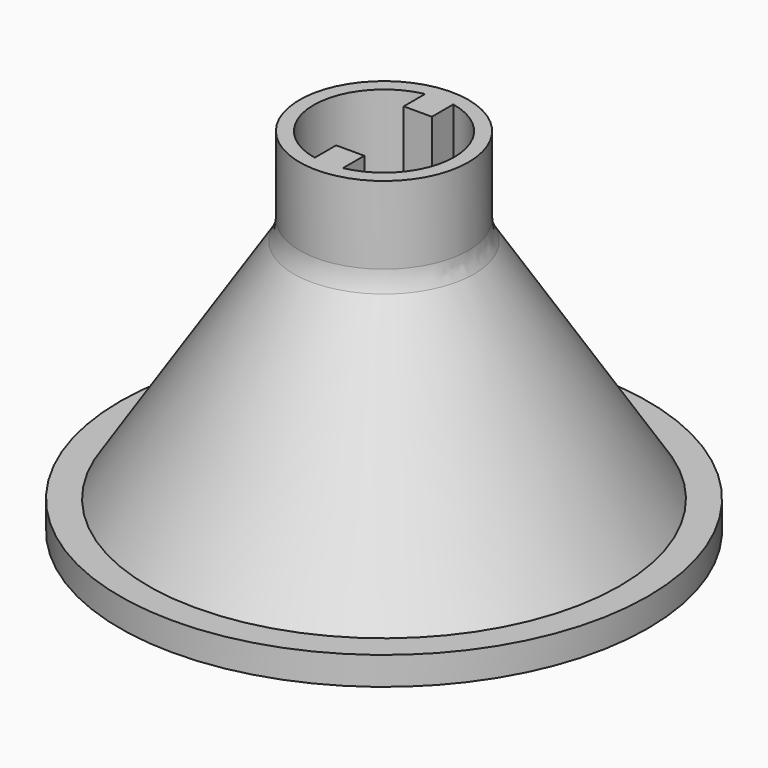
from build123d import *

# Parameters (mm, degrees)
F0_W     = 6.096
F0_H     = 6.35
F2_R     = 5.08
F3_DEPTH = 24.13
F4_R     = 2.54
F5_W     = 2.032
F5_H     = 2.54
F6_DEPTH = 25.4


with BuildPart() as f1:
    # F0 (on Front) → F1 (revolve)
    with BuildSketch(Plane.XZ):
        Polygon((0, 19.05), (0, 0), (19.05, 0), (19.05, 2.032), (17.018, 2.032), (6.096, 19.05), align=None)
        with Locations((3.048, 22.225)):
            Rectangle(F0_W, F0_H)
    revolve(axis=Axis((0, 0, 9.525), (0, 0, 1)))

    # F2 (on face) → F3 (cut)
    with BuildSketch(Plane.XY.offset(25.4)):
        Circle(F2_R)
    extrude(amount=-F3_DEPTH, mode=Mode.SUBTRACT)

    # F4
    f4_edges = [f1.edges().sort_by_distance(p)[0] for p in [
        (-6.096, 0, 19.05),
    ]]
    fillet(f4_edges, radius=F4_R)

    # F5 (on face) → F6 (join)
    with BuildSketch(Plane.XY.offset(25.4)):
        with Locations((0, -4.318)):
            Rectangle(F5_W, F5_H)
        with Locations((0, 4.318)):
            Rectangle(F5_W, F5_H)
    extrude(amount=-F6_DEPTH)


solid = f1.part
